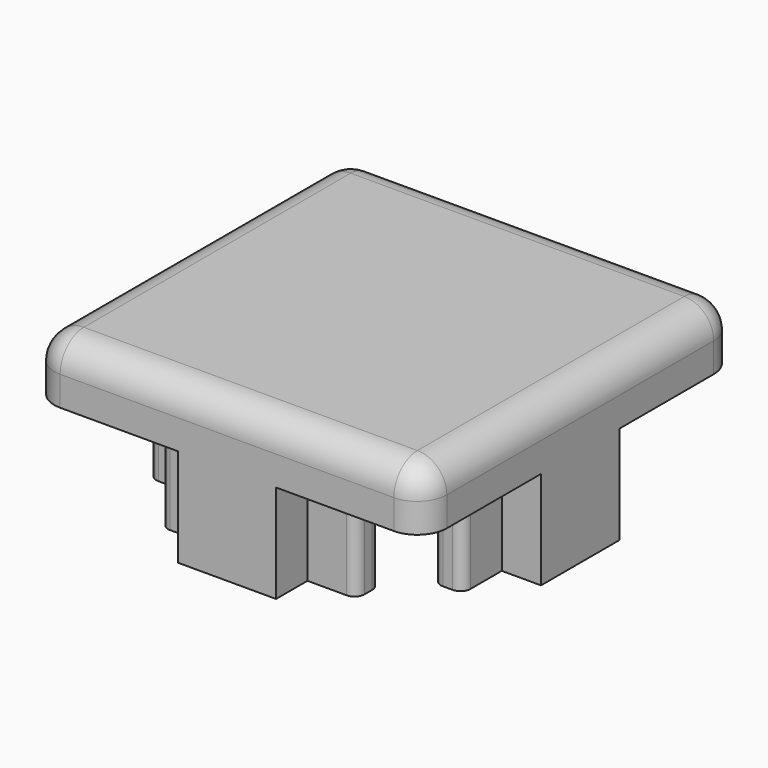
from build123d import *

# Parameters (mm, degrees)
F0_W     = 20
F0_H     = 20
F1_DEPTH = 3
F3_DEPTH = 5
F5_COUNT = 4
F6_R     = 1.5


with BuildPart() as f1:
    # F0 (on Top) → F1 (new body)
    with BuildSketch(Plane.XY):
        Rectangle(F0_W, F0_H)
    extrude(amount=F1_DEPTH)

    # F2 (on face) → F3 (join)
    with BuildSketch(Plane(origin=(0, 0, 0), x_dir=(1, 0, 0), z_dir=(0, 0, -1))):
        with BuildLine():
            Line((-2.5, -8), (-2.5, -10))
            Line((-2.5, -10), (2.5, -10))
            Line((2.5, -10), (2.5, -8))
            Line((2.5, -8), (4.5, -8))
            ThreePointArc((4.5, -8), (4.8535533906, -7.8535533906), (5, -7.5))
            Line((5, -7.5), (5, -7))
            ThreePointArc((5, -7), (4.8535533906, -6.6464466094), (4.5, -6.5))
            Line((4.5, -6.5), (-4.5, -6.5))
            ThreePointArc((-4.5, -6.5), (-4.8535533906, -6.6464466094), (-5, -7))
            Line((-5, -7), (-5, -7.5))
            ThreePointArc((-5, -7.5), (-4.8535533906, -7.8535533906), (-4.5, -8))
            Line((-4.5, -8), (-2.5, -8))
        make_face()
    extrude(amount=F3_DEPTH)

    # F5: F1 ×4 about axis
    f5_axis = Axis((0, 0, -8.8594034314), (0, 0, -1))


with BuildPart() as f1_1:
    add(f1.part)
    for i in range(1, F5_COUNT):
        add(f1.part.rotate(f5_axis, i * 360 / F5_COUNT))

    # F6
    f6_edges = [f1_1.edges().sort_by_distance(p)[0] for p in [
        (-10, 0, 3),
        (0, 10, 3),
        (0, -10, 3),
        (10, 0, 3),
        (10, -10, 1.5),
        (10, 10, 1.5),
        (-10, 10, 1.5),
        (-10, -10, 1.5),
    ]]
    fillet(f6_edges, radius=F6_R)


solid = f1_1.part
